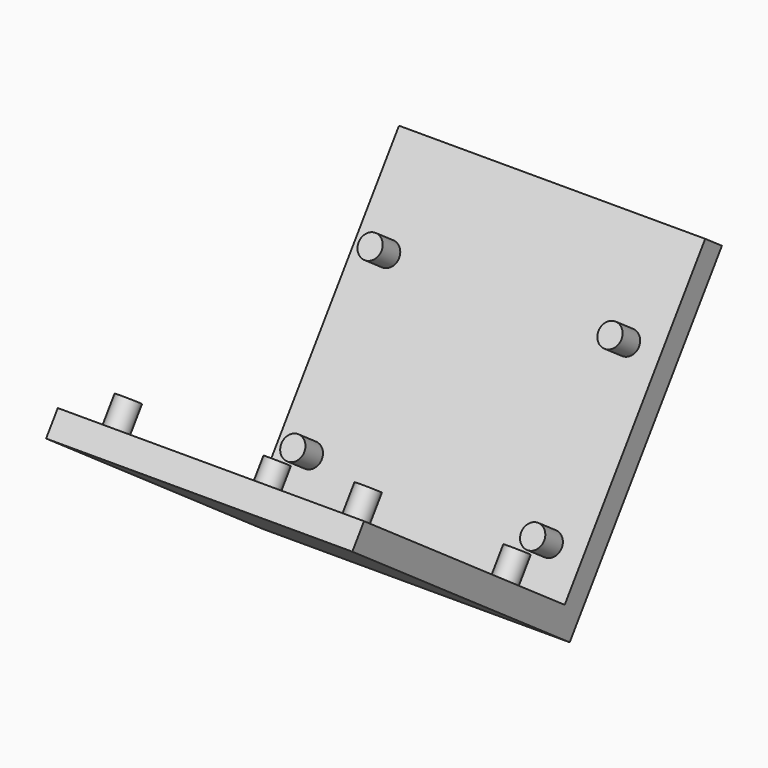
from build123d import *

# Parameters (mm, degrees)
PAD008_DEPTH            = 60
SKETCH028_R             = 4.5
PAD009_DEPTH            = 10.5
SKETCH026_R             = 4.5
PAD010_DEPTH            = 10.5
BODY005_PLACEMENT_ANGLE = 145


with BuildPart() as part:
    # Sketch027 → Pad008 (new body, symmetric)
    with BuildSketch(Plane.YZ):
        Polygon((-10, 10), (-10, -110), (-20, -110), (-20, 20), (110, 20), (110, 10), align=None)
    extrude(amount=PAD008_DEPTH, both=True)

    # Sketch028 → Pad009 (join)
    with BuildSketch(Plane(origin=(0, -10, 0), x_dir=(-1, 0, 0), z_dir=(0, 1, 0))):
        with Locations((-47, -6)):
            Circle(SKETCH028_R)
        with Locations((-47, -72)):
            Circle(SKETCH028_R)
        with Locations((47, -6)):
            Circle(SKETCH028_R)
        with Locations((47, -72)):
            Circle(SKETCH028_R)
    extrude(amount=PAD009_DEPTH)

    # Sketch026 → Pad010 (join)
    with BuildSketch(Plane(origin=(0, 0, 10), x_dir=(-1, 0, 0), z_dir=(0, 0, -1))):
        with Locations((-47, 6)):
            Circle(SKETCH026_R)
        with Locations((-47, 95)):
            Circle(SKETCH026_R)
        with Locations((47, 95)):
            Circle(SKETCH026_R)
        with Locations((47, 6)):
            Circle(SKETCH026_R)
    extrude(amount=PAD010_DEPTH)


with BuildPart() as part_1:
    # Body005 placement: moved
    add(part.part.moved(Location((0, 19.28038, -55.844471))).rotate(Axis((0, 19.28038, -55.844471), (1, 0, 0)), BODY005_PLACEMENT_ANGLE))


solid = part_1.part
